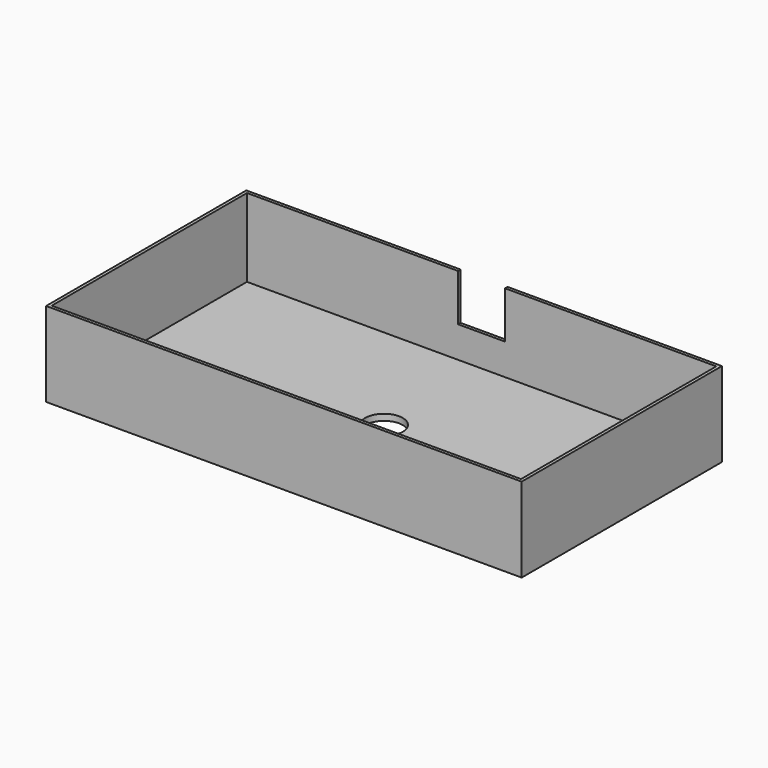
from build123d import *

# Parameters (mm, degrees)
F0_W     = 152
F0_H     = 80
F1_DEPTH = 27
F2_W     = 150
F2_H     = 78
F3_DEPTH = 25
F4_R     = 6
F5_DEPTH = 5
F6_W     = 15
F6_H     = 15
F7_DEPTH = 1


with BuildPart() as f1:
    # F0 (on Top) → F1 (new body)
    with BuildSketch(Plane.XY):
        Rectangle(F0_W, F0_H)
    extrude(amount=F1_DEPTH)

    # F2 (on face) → F3 (cut)
    with BuildSketch(Plane.XY.offset(27)):
        Rectangle(F2_W, F2_H)
    extrude(amount=-F3_DEPTH, mode=Mode.SUBTRACT)

    # F4 (on face) → F5 (cut)
    with BuildSketch(Plane.XY.offset(2)):
        Circle(F4_R)
    extrude(amount=-F5_DEPTH, mode=Mode.SUBTRACT)

    # F6 (on face) → F7 (cut)
    with BuildSketch(Plane(origin=(0, 40, 0), x_dir=(-1, 0, 0), z_dir=(0, 1, 0))):
        with Locations((0, 19.5)):
            Rectangle(F6_W, F6_H)
    extrude(amount=-F7_DEPTH, mode=Mode.SUBTRACT)


solid = f1.part
